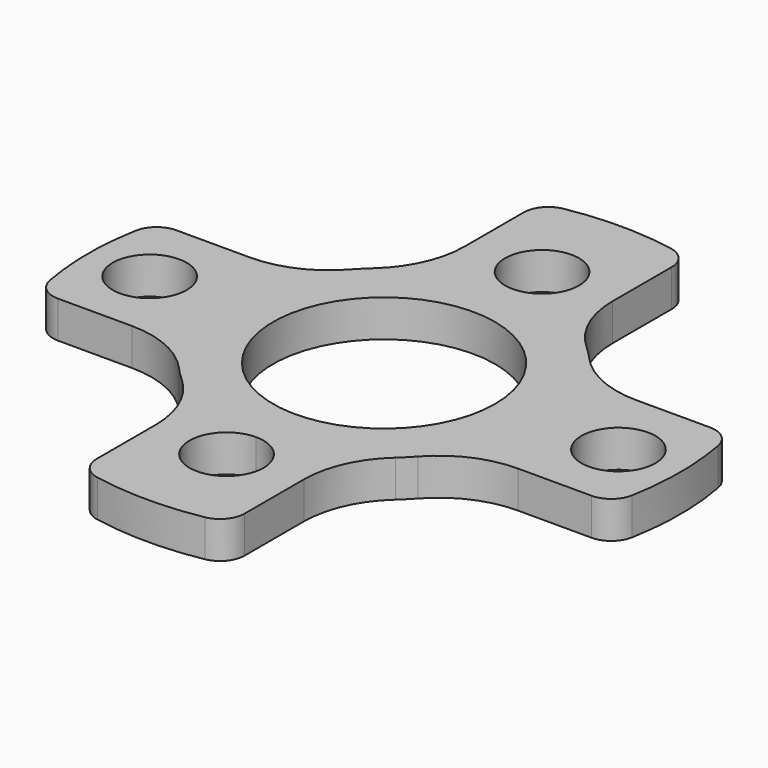
from build123d import *

# Parameters (mm, degrees)
F0_R     = 4.5
F0_R_2   = 1.5
F1_DEPTH = 1.5
F2_R     = 4


with BuildPart() as f1:
    # F0 (on Top) → F1 (new body)
    with BuildSketch(Plane.XY):
        with BuildLine():
            ThreePointArc((3.004161691, -5.7955113904), (1.5522577141, -6.3433300134), (0.0118794416, -6.5313863328))
            ThreePointArc((0.0118794416, -6.5313863328), (-1.5361614481, -6.3472667251), (-2.995838309, -5.7998417643))
            Line((-2.995838309, -5.7998417643), (-2.995838309, -10.8488196837))
            ThreePointArc((-2.995838309, -10.8488196837), (-2.764421371, -11.4885696949), (-2.1772781553, -11.8322217287))
            ThreePointArc((-2.1772781553, -11.8322217287), (0.0046169816, -12.0313963001), (2.1863582083, -11.8305428262))
            ThreePointArc((2.1863582083, -11.8305428262), (2.7729908389, -11.4867349425), (3.004161691, -10.8472806897))
            Line((3.004161691, -10.8472806897), (3.004161691, -5.7955113904))
        make_face()
        with BuildLine():
            ThreePointArc((0.0118794416, -6.5313863328), (1.0743113125, -6.9697548816), (1.5146208008, -8.0313838278))
            ThreePointArc((1.5146208008, -8.0313838278), (-1.0450697109, -9.093012774), (0.0118794416, -6.5313863328))
        make_face(mode=Mode.SUBTRACT)
        with BuildLine():
            ThreePointArc((-2.995838309, -5.7998417643), (-1.5361614481, -6.3472667251), (0.0118794416, -6.5313863328))
            ThreePointArc((0.0118794416, -6.5313863328), (1.5522577141, -6.3433300134), (3.004161691, -5.7955113904))
            ThreePointArc((3.004161691, -5.7955113904), (4.5961940777, -4.627591266), (5.7641142021, -3.0355588793))
            ThreePointArc((5.7641142021, -3.0355588793), (6.3133486484, -1.5778863875), (6.5, -0.0313971883))
            ThreePointArc((6.5, -0.0313971883), (6.3144631499, 1.5105350826), (5.768444576, 2.9644411207))
            ThreePointArc((5.768444576, 2.9644411207), (4.5995100863, 4.5614784867), (3.004161691, 5.7327170138))
            ThreePointArc((3.004161691, 5.7327170138), (1.5481312977, 6.2815489928), (0.0033814005, 6.4686019322))
            ThreePointArc((0.0033814005, 6.4686019322), (-1.540289778, 6.2834668165), (-2.995838309, 5.7370473877))
            ThreePointArc((-2.995838309, 5.7370473877), (-4.5961940777, 4.5647968894), (-5.768444576, 2.9644411207))
            ThreePointArc((-5.768444576, 2.9644411207), (-6.4999983071, -0.0360884255), (-5.7641142021, -3.0355588793))
            ThreePointArc((-5.7641142021, -3.0355588793), (-4.592875675, -4.6309072746), (-2.995838309, -5.7998417643))
        make_face()
        with Locations((0, -0.0313971883)):
            Circle(F0_R, mode=Mode.SUBTRACT)
        with BuildLine():
            Line((-10.8158835014, -3.0355588793), (-5.7641142021, -3.0355588793))
            ThreePointArc((-5.7641142021, -3.0355588793), (-6.4999983071, -0.0360884255), (-5.768444576, 2.9644411207))
            Line((-5.768444576, 2.9644411207), (-10.8174224954, 2.9644411207))
            ThreePointArc((-10.8174224954, 2.9644411207), (-11.4571725066, 2.7330241827), (-11.8008245404, 2.145880967))
            ThreePointArc((-11.8008245404, 2.145880967), (-11.9999991118, -0.0360141699), (-11.7991456379, -2.2177553966))
            ThreePointArc((-11.7991456379, -2.2177553966), (-11.4553377541, -2.8043880272), (-10.8158835014, -3.0355588793))
        make_face()
        with Locations((-9.5, -0.0313971883)):
            Circle(F0_R_2, mode=Mode.SUBTRACT)
        with BuildLine():
            ThreePointArc((6.5, -0.0313971883), (6.3133486484, -1.5778863875), (5.7641142021, -3.0355588793))
            Line((5.7641142021, -3.0355588793), (10.8158835014, -3.0355588793))
            ThreePointArc((10.8158835014, -3.0355588793), (11.4553377541, -2.8043880272), (11.7991456379, -2.2177553966))
            ThreePointArc((11.7991456379, -2.2177553966), (11.9999991118, -0.0360141699), (11.8008245404, 2.145880967))
            ThreePointArc((11.8008245404, 2.145880967), (11.4571725066, 2.7330241827), (10.8174224954, 2.9644411207))
            Line((10.8174224954, 2.9644411207), (5.768444576, 2.9644411207))
            ThreePointArc((5.768444576, 2.9644411207), (6.3144631499, 1.5105350826), (6.5, -0.0313971883))
        make_face()
        with Locations((9.5, -0.0313971883)):
            Circle(F0_R_2, mode=Mode.SUBTRACT)
        with BuildLine():
            Line((-2.995838309, 10.7860253071), (-2.995838309, 5.7370473877))
            ThreePointArc((-2.995838309, 5.7370473877), (-1.540289778, 6.2834668165), (0.0033814005, 6.4686019322))
            ThreePointArc((0.0033814005, 6.4686019322), (1.5481312977, 6.2815489928), (3.004161691, 5.7327170138))
            Line((3.004161691, 5.7327170138), (3.004161691, 10.7844863131))
            ThreePointArc((3.004161691, 10.7844863131), (2.7729908389, 11.4239405658), (2.1863582083, 11.7677484496))
            ThreePointArc((2.1863582083, 11.7677484496), (0.0046169816, 11.9686019235), (-2.1772781553, 11.7694273521))
            ThreePointArc((-2.1772781553, 11.7694273521), (-2.764421371, 11.4257753183), (-2.995838309, 10.7860253071))
        make_face()
        with BuildLine():
            ThreePointArc((1.504161691, 7.9686017292), (1.0645459525, 6.907665719), (0.0033814005, 6.4686019322))
            ThreePointArc((0.0033814005, 6.4686019322), (-1.0562225706, 9.0295377395), (1.504161691, 7.9686017292))
        make_face(mode=Mode.SUBTRACT)
    extrude(amount=F1_DEPTH)

    # F2
    f2_edges = [f1.edges().sort_by_distance(p)[0] for p in [
        (-5.764114, -3.035559, 0.75),
        (-2.995838, -5.799842, 0.75),
        (3.004162, 5.732717, 0.75),
        (5.768445, 2.964441, 0.75),
        (5.764114, -3.035559, 0.75),
        (3.004162, -5.795511, 0.75),
        (-2.995838, 5.737047, 0.75),
        (-5.768445, 2.964441, 0.75),
    ]]
    fillet(f2_edges, radius=F2_R)


solid = f1.part
